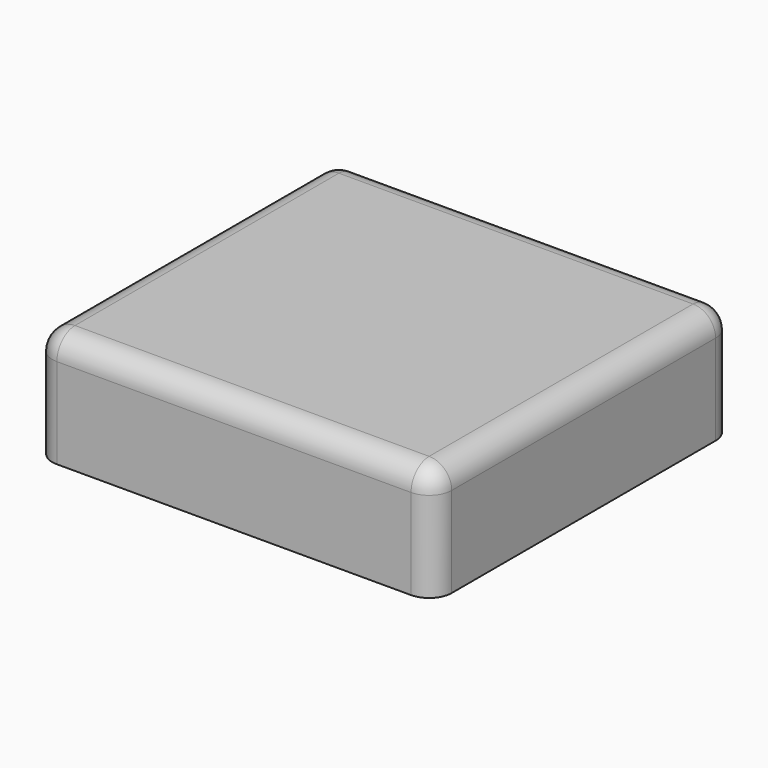
from build123d import *

# Parameters (mm, degrees)
F0_W     = 82.55
F0_H     = 77.089
F1_DEPTH = 25.4
F2_W     = 82.55
F2_H     = 77.089
F3_DEPTH = 3.6195
F4_R     = 5.08
F5_R     = 5.08


with BuildPart() as f1:
    # F0 (on Top) → F1 (new body)
    with BuildSketch(Plane.XY):
        Polygon((-44.8945, 42.164), (-44.8945, 38.5445), (-44.8945, -42.164), (44.8945, -42.164), (44.8945, 42.164), align=None)
        Rectangle(F0_W, F0_H, mode=Mode.SUBTRACT)
    extrude(amount=F1_DEPTH)

    # F2 (on face) → F3 (join)
    with BuildSketch(Plane.XY.offset(25.4)):
        Rectangle(F2_W, F2_H)
    extrude(amount=-F3_DEPTH)

    # F4
    f4_edges = [f1.edges().sort_by_distance(p)[0] for p in [
        (41.275, -38.5445, 10.89025),
        (-41.275, -38.5445, 10.89025),
        (41.275, 38.5445, 10.89025),
        (-41.275, 38.5445, 10.89025),
    ]]
    fillet(f4_edges, radius=F4_R)

    # F5
    f5_edges = [f1.edges().sort_by_distance(p)[0] for p in [
        (-44.8945, -42.164, 12.7),
        (44.8945, -42.164, 12.7),
        (44.8945, 42.164, 12.7),
        (-44.8945, 42.164, 12.7),
        (0, 42.164, 25.4),
        (-44.8945, 0, 25.4),
        (0, -42.164, 25.4),
        (44.8945, 0, 25.4),
    ]]
    fillet(f5_edges, radius=F5_R)


solid = f1.part
